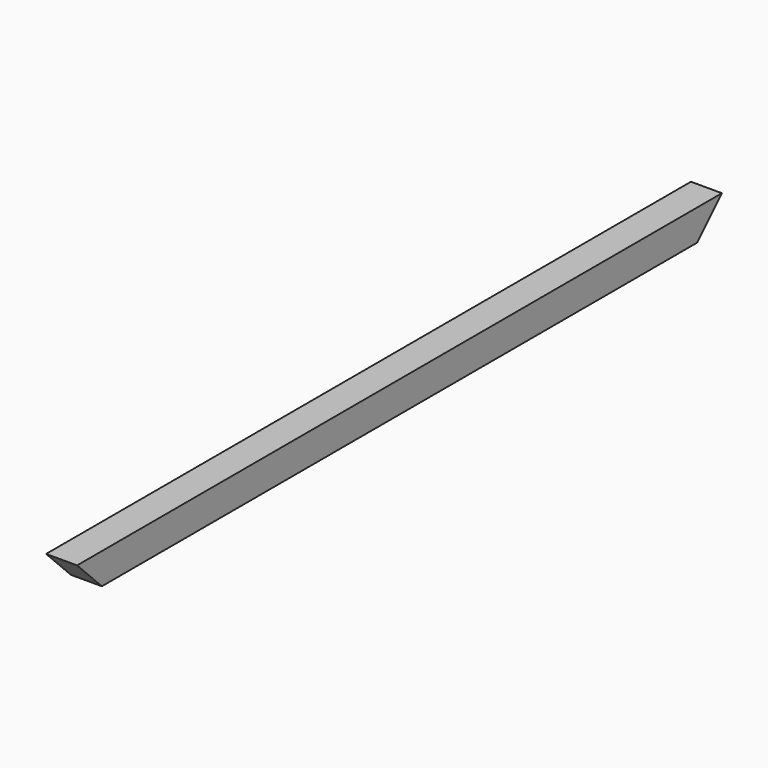
from build123d import *

# Parameters (mm, degrees)
F0_W          = 50
F0_H          = 50
F1_DEPTH      = 1300
F3_DEPTH      = 25.001
F3_DEPTH_BACK = 25.001


with BuildPart() as f1:
    # F0 (on Front) → F1 (new body)
    with BuildSketch(Plane.XZ):
        Rectangle(F0_W, F0_H)
    extrude(amount=F1_DEPTH)

    # F2 (on Right) → F3 (cut, two sides)
    with BuildSketch(Plane.YZ) as f3_sk:
        Polygon((-1300, -25), (-1250, -25), (-1300, 25), align=None)
        Polygon((0, 25), (-50, -25), (0, -25), align=None)
    extrude(amount=-F3_DEPTH, mode=Mode.SUBTRACT)
    extrude(f3_sk.sketch, amount=F3_DEPTH_BACK, mode=Mode.SUBTRACT)


solid = f1.part
